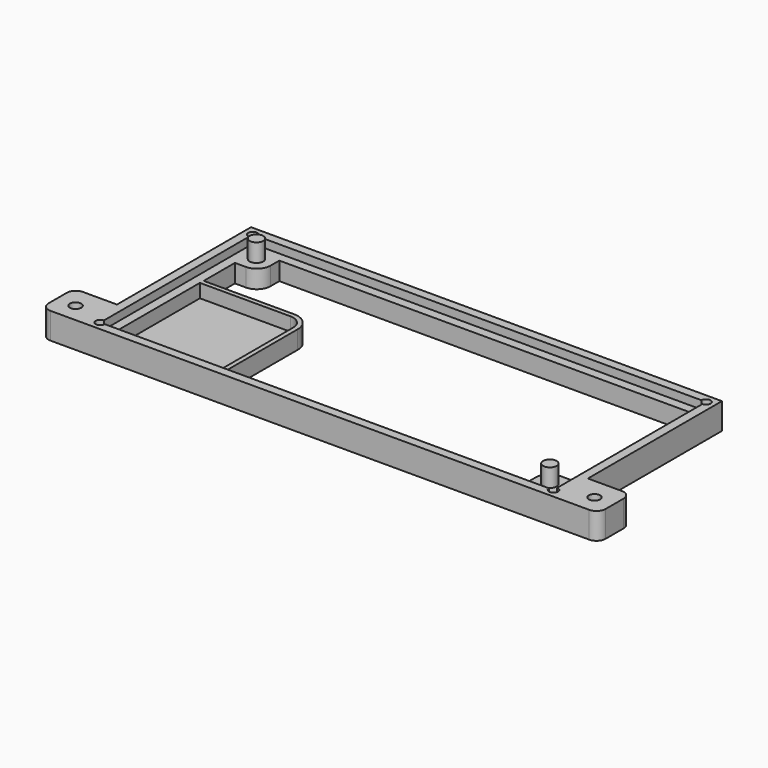
from build123d import *

# Parameters (mm, degrees)
F0_W      = 104
F0_H      = 46
F1_DEPTH  = 5.8
F2_W      = 123
F2_H      = 9
F3_DEPTH  = 5.8
F4_R      = 1.25
F5_DEPTH  = 5.8
F6_R      = 1.25
F7_DEPTH  = 5.8
F8_W      = 100.1
F8_H      = 42.1
F9_DEPTH  = 1.8
F10_W     = 96
F10_H     = 38
F11_DEPTH = 4
F12_W     = 7.5
F12_H     = 7.5
F13_DEPTH = 4
F14_W     = 7.5
F14_H     = 7.5
F15_DEPTH = 4
F16_R     = 1.5
F17_DEPTH = 8
F18_R     = 1.5
F19_DEPTH = 8
F20_W     = 26
F20_H     = 26
F21_DEPTH = 4
F22_W     = 23
F22_H     = 23
F23_DEPTH = 3
F24_R     = 3
F25_R     = 4
F26_R     = 3
F27_R     = 3
F28_R     = 2
F29_R     = 1
F30_DEPTH = 1.8
F31_R     = 1
F32_DEPTH = 1.8
F33_R     = 1
F34_DEPTH = 1.8


with BuildPart() as f1:
    # F0 (on Top) → F1 (new body)
    with BuildSketch(Plane.XY):
        Rectangle(F0_W, F0_H)
    extrude(amount=F1_DEPTH)

    # F2 (on Top) → F3 (join)
    with BuildSketch(Plane.XY):
        with Locations((0, -18.5)):
            Rectangle(F2_W, F2_H)
    extrude(amount=F3_DEPTH)

    # F4 (on Top) → F5 (cut)
    with BuildSketch(Plane.XY):
        with Locations((-57.3, -18.8)):
            Circle(F4_R)
    extrude(amount=F5_DEPTH, mode=Mode.SUBTRACT)

    # F6 (on Top) → F7 (cut)
    with BuildSketch(Plane.XY):
        with Locations((57.3, -18.8)):
            Circle(F6_R)
    extrude(amount=F7_DEPTH, mode=Mode.SUBTRACT)

    # F8 (on face) → F9 (cut)
    with BuildSketch(Plane.XY.offset(5.8)):
        Rectangle(F8_W, F8_H)
    extrude(amount=-F9_DEPTH, mode=Mode.SUBTRACT)

    # F10 (on face) → F11 (cut)
    with BuildSketch(Plane.XY.offset(4)):
        Rectangle(F10_W, F10_H)
    extrude(amount=-F11_DEPTH, mode=Mode.SUBTRACT)

    # F12 (on Top) → F13 (join)
    with BuildSketch(Plane.XY):
        with Locations((-46.3, 17.3)):
            Rectangle(F12_W, F12_H)
    extrude(amount=F13_DEPTH)

    # F14 (on Top) → F15 (join)
    with BuildSketch(Plane.XY):
        with Locations((46.3, -17.3)):
            Rectangle(F14_W, F14_H)
    extrude(amount=F15_DEPTH)

    # F16 (on Top) → F17 (join)
    with BuildSketch(Plane.XY):
        with Locations((-46, 17)):
            Circle(F16_R)
    extrude(amount=F17_DEPTH)

    # F18 (on Top) → F19 (join)
    with BuildSketch(Plane.XY):
        with Locations((46, -17)):
            Circle(F18_R)
    extrude(amount=F19_DEPTH)

    # F20 (on Top) → F21 (join)
    with BuildSketch(Plane.XY):
        with Locations((-37.05, -8.05)):
            Rectangle(F20_W, F20_H)
    extrude(amount=F21_DEPTH)

    # F22 (on face) → F23 (cut)
    with BuildSketch(Plane.XY.offset(4)):
        with Locations((-36.55, -7.55)):
            Rectangle(F22_W, F22_H)
    extrude(amount=-F23_DEPTH, mode=Mode.SUBTRACT)

    # F24
    f24_edges = [f1.edges().sort_by_distance(p)[0] for p in [
        (-25.05, 3.95, 2.5),
    ]]
    fillet(f24_edges, radius=F24_R)

    # F25
    f25_edges = [f1.edges().sort_by_distance(p)[0] for p in [
        (-24.05, 4.95, 2),
    ]]
    fillet(f25_edges, radius=F25_R)

    # F26
    f26_edges = [f1.edges().sort_by_distance(p)[0] for p in [
        (-42.55, 13.55, 2),
    ]]
    fillet(f26_edges, radius=F26_R)

    # F27
    f27_edges = [f1.edges().sort_by_distance(p)[0] for p in [
        (42.55, -13.55, 2),
    ]]
    fillet(f27_edges, radius=F27_R)

    # F28
    f28_edges = [f1.edges().sort_by_distance(p)[0] for p in [
        (-61.5, -14, 2.9),
        (-61.5, -23, 2.9),
        (61.5, -23, 2.9),
        (61.5, -14, 2.9),
    ]]
    fillet(f28_edges, radius=F28_R)

    # F29 (on face) → F30 (cut)
    with BuildSketch(Plane.XY.offset(5.8)):
        with Locations((-50.05, 21.05)):
            Circle(F29_R)
    extrude(amount=-F30_DEPTH, mode=Mode.SUBTRACT)

    # F31 (on face) → F32 (cut)
    with BuildSketch(Plane.XY.offset(5.8)):
        with Locations((-50.05, -21.05)):
            Circle(F31_R)
    extrude(amount=-F32_DEPTH, mode=Mode.SUBTRACT)

    # F33 (on face) → F34 (cut)
    with BuildSketch(Plane.XY.offset(5.8)):
        with Locations((50.05, -21.05)):
            Circle(F33_R)
        with Locations((50.05, 21.05)):
            Circle(F33_R)
    extrude(amount=-F34_DEPTH, mode=Mode.SUBTRACT)


solid = f1.part
